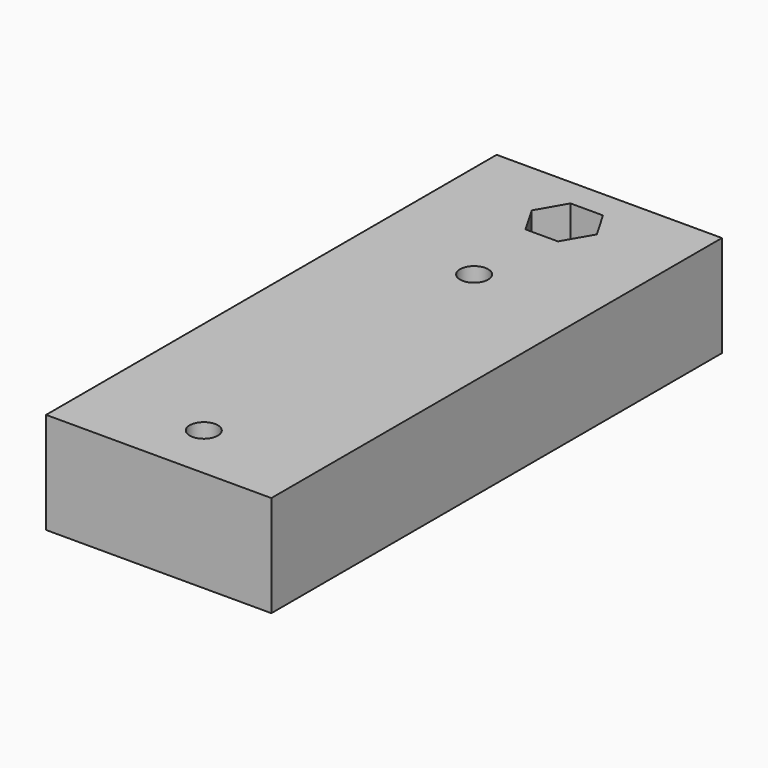
from build123d import *

# Parameters (mm, degrees)
SKETCH062_W          = 40
SKETCH062_H          = 100
PAD005_DEPTH         = 18
SKETCH063_R          = 3
SKETCH063_R_2        = 2.5
POCKET035_DEPTH      = 0.001
POCKET035_DEPTH_BACK = 18.001
POCKET041_DEPTH      = 7


with BuildPart() as part:
    # Sketch062 → Pad005 (new body)
    with BuildSketch(Plane.XY):
        Rectangle(SKETCH062_W, SKETCH062_H)
    extrude(amount=PAD005_DEPTH)

    # Sketch063 → Pocket035 (cut, two sides)
    with BuildSketch(Plane.XY) as pocket035_sk:
        with Locations((0, 40)):
            Circle(SKETCH063_R)
        with Locations((0, 20)):
            Circle(SKETCH063_R_2)
        with Locations((0, -40)):
            Circle(SKETCH063_R_2)
    extrude(amount=-POCKET035_DEPTH, mode=Mode.SUBTRACT)
    extrude(pocket035_sk.sketch, amount=POCKET035_DEPTH_BACK, mode=Mode.SUBTRACT)

    # Sketch092 → Pocket041 (cut)
    with BuildSketch(Plane(origin=(0, 40, 18), x_dir=(1, 0, 0), z_dir=(0, 0, 1))):
        Polygon((5.773503, 0), (2.886751, 5), (-2.886751, 5), (-5.773503, 0), (-2.886751, -5), (2.886751, -5), align=None)
    extrude(amount=-POCKET041_DEPTH, mode=Mode.SUBTRACT)


with BuildPart() as part_1:
    # Clone027 placement: moved
    add(part.part.moved(Location((20, 50, 0))))


solid = part_1.part
